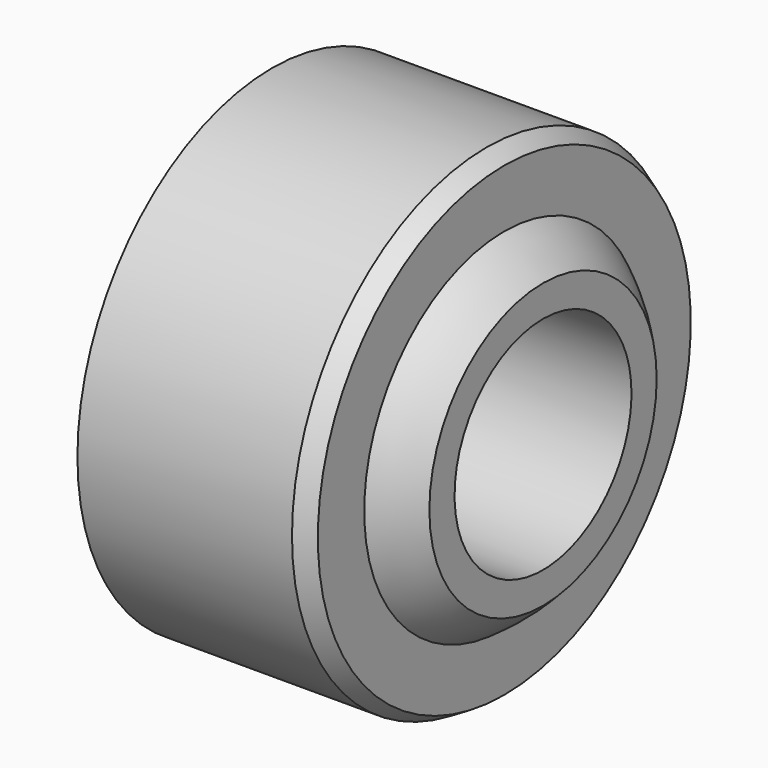
from build123d import *

# Parameters (mm, degrees)
F3_SIZE2 = 0.4618802154
F3_SIZE  = 0.8


with BuildPart() as f1:
    # F0 (on Front) → F1 (revolve)
    with BuildSketch(Plane.XZ):
        with BuildLine():
            Line((7, 5), (7, 6.4226162893))
            ThreePointArc((7, 6.4226162893), (6.1704397796, 7.2232730065), (5.25, 7.9175438111))
            Line((5.25, 7.9175438111), (5.25, 5))
            Line((5.25, 5), (7, 5))
        make_face()
        with BuildLine():
            Line((5.25, 5), (5.25, 7.9175438111))
            ThreePointArc((5.25, 7.9175438111), (0, 9.5), (-5.25, 7.9175438111))
            Line((-5.25, 7.9175438111), (-5.25, 5))
            Line((-5.25, 5), (5.25, 5))
        make_face()
        with BuildLine():
            Line((-5.25, 5), (-5.25, 7.9175438111))
            ThreePointArc((-5.25, 7.9175438111), (-6.1704397796, 7.2232730065), (-7, 6.4226162893))
            Line((-7, 6.4226162893), (-7, 5))
            Line((-7, 5), (-5.25, 5))
        make_face()
    revolve(axis=Axis((-1.1205514893, 0, 0), (1, 0, 0)))


with BuildPart() as f2:
    # F0 (on Front) → F2 (revolve)
    with BuildSketch(Plane.XZ):
        with BuildLine():
            ThreePointArc((-5.25, 7.9175438111), (0, 9.5), (5.25, 7.9175438111))
            Line((5.25, 7.9175438111), (5.25, 11))
            Line((5.25, 11), (-5.25, 11))
            Line((-5.25, 11), (-5.25, 7.9175438111))
        make_face()
    revolve(axis=Axis((-1.1205514893, 0, 0), (1, 0, 0)))

    # F3
    f3_edges = [f2.edges().sort_by_distance(p)[0] for p in [
        (5.25, 0, -11),
    ]]
    f3_side = f2.faces().sort_by_distance((0, 0, -11))[0]
    chamfer(f3_edges, length=F3_SIZE, length2=F3_SIZE2, reference=f3_side)


solid = Compound([f1.part, f2.part])
